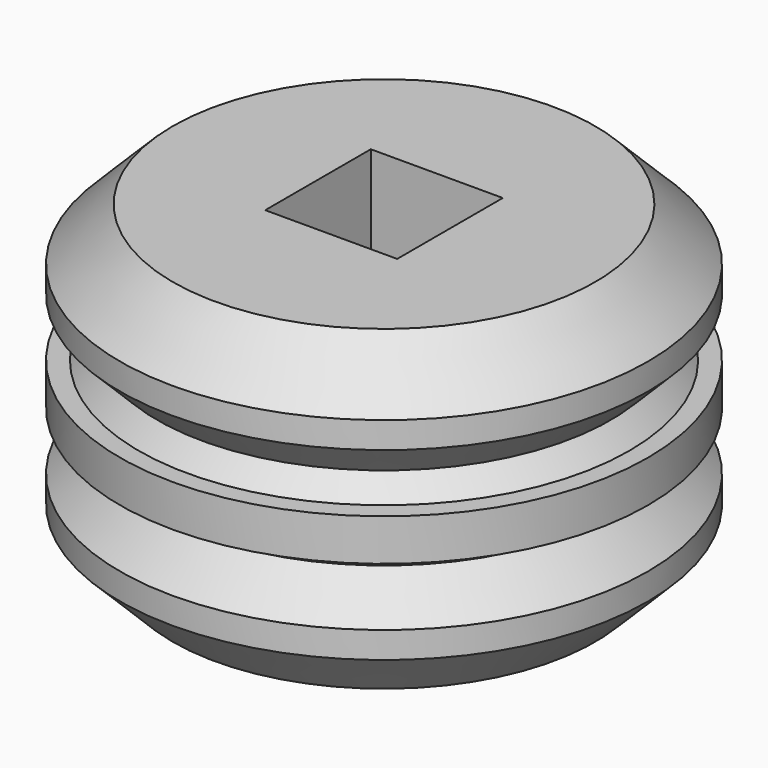
from build123d import *

# Parameters (mm, degrees)
F2_SIZE  = 1.27
F3_W     = 3.175
F3_H     = 3.175
F4_DEPTH = 25.4


with BuildPart() as f1:
    # F0 (on Front) → F1 (revolve)
    with BuildSketch(Plane.XZ):
        Polygon((-6.35, 0), (0, 0), (0, 7.62), (-6.35, 7.62), (-6.35, 5.715), (-5.451974, 4.816974), (-5.900987, 4.313487), (-6.35, 4.313487), (-6.35, 3.306513), (-5.900987, 3.306513), (-5.451974, 2.803026), (-6.35, 1.905), align=None)
    revolve(axis=Axis((0, 0, 3.81), (0, 0, 1)))

    # F2
    f2_edges = [f1.edges().sort_by_distance(p)[0] for p in [
        (6.35, 0, 7.62),
        (6.35, 0, 0),
    ]]
    chamfer(f2_edges, length=F2_SIZE)

    # F3 (on face) → F4 (cut)
    with BuildSketch(Plane(origin=(0, 0, 0), x_dir=(1, 0, 0), z_dir=(0, 0, -1))):
        Rectangle(F3_W, F3_H)
    extrude(amount=-F4_DEPTH, mode=Mode.SUBTRACT)


solid = f1.part
